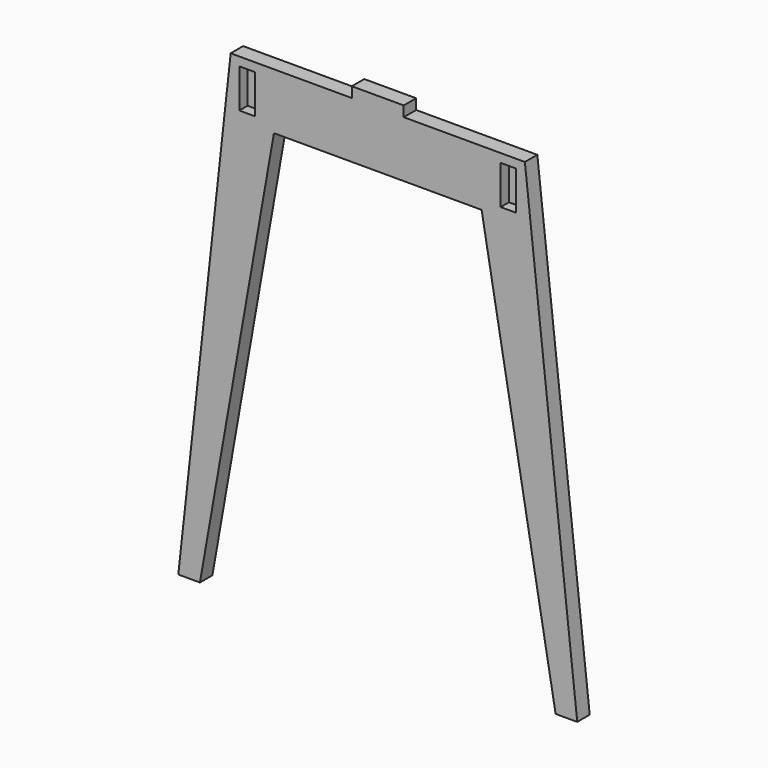
from build123d import *

# Parameters (mm, degrees)
PAD_DEPTH    = 18
SKETCH001_W  = 18
SKETCH001_H  = 45
POCKET_DEPTH = 12


with BuildPart() as part:
    # Sketch → Pad (new body)
    with BuildSketch(Plane.XZ):
        Polygon((-230.518586, 0), (-170, 550), (-30, 550), (-30, 562), (30, 562), (30, 550), (170, 550), (230.518586, 0), (205.518586, 0), (120, 485), (-120, 485), (-205.518586, 0), align=None)
    extrude(amount=PAD_DEPTH)

    # Sketch001 → Pocket (cut)
    with BuildSketch(Plane.XZ.offset(18)):
        with Locations((-151, 517.5)):
            Rectangle(SKETCH001_W, SKETCH001_H)
        with Locations((151, 517.5)):
            Rectangle(SKETCH001_W, SKETCH001_H)
    extrude(amount=-POCKET_DEPTH, mode=Mode.SUBTRACT)


solid = part.part
